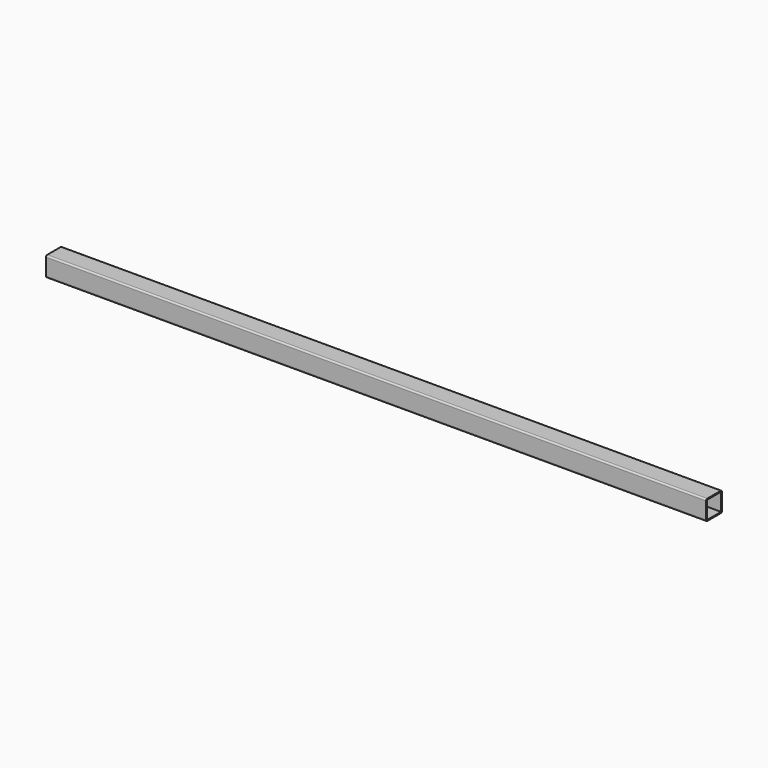
from build123d import *

# Parameters (mm, degrees)
F0_W     = 57
F0_H     = 57
F1_DEPTH = 2134


with BuildPart() as f1:
    # F0 (on Right) → F1 (new body)
    with BuildSketch(Plane.YZ):
        with BuildLine():
            Line((16.53541, 46.006598), (-37.46459, 46.006598))
            ThreePointArc((-37.46459, 46.006598), (-41.000124, 44.542132), (-42.46459, 41.006598))
            Line((-42.46459, 41.006598), (-42.46459, -12.993402))
            ThreePointArc((-42.46459, -12.993402), (-41.000124, -16.528936), (-37.46459, -17.993402))
            Line((-37.46459, -17.993402), (16.53541, -17.993402))
            ThreePointArc((16.53541, -17.993402), (20.070944, -16.528936), (21.53541, -12.993402))
            Line((21.53541, -12.993402), (21.53541, 41.006598))
            ThreePointArc((21.53541, 41.006598), (20.070944, 44.542132), (16.53541, 46.006598))
        make_face()
        with Locations((-10.46459, 14.006598)):
            Rectangle(F0_W, F0_H, mode=Mode.SUBTRACT)
    extrude(amount=F1_DEPTH)


solid = f1.part
